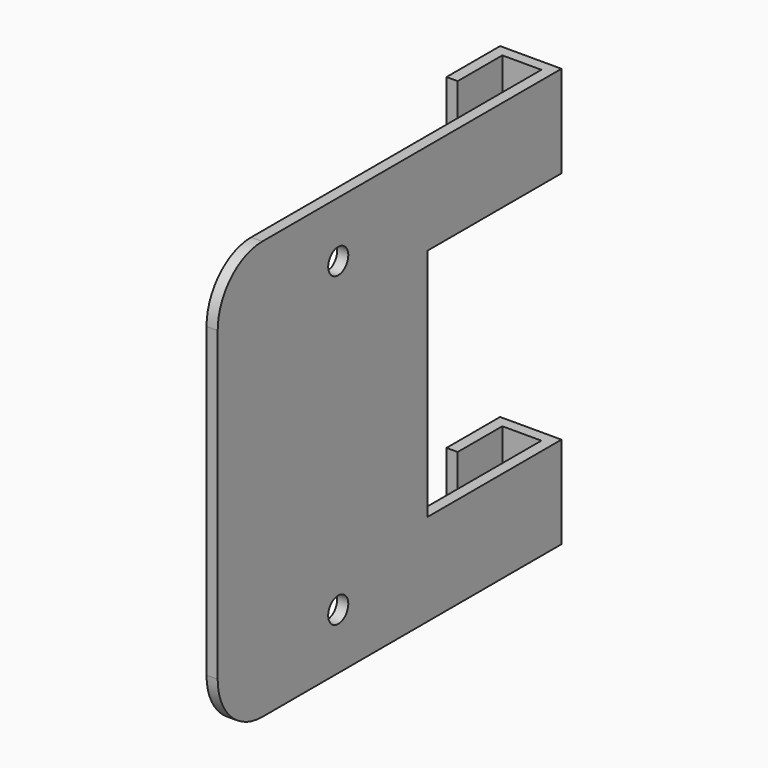
from build123d import *

# Parameters (mm, degrees)
F3_DEPTH = 75
F4_W     = 30
F4_H     = 42
F5_DEPTH = 25
F6_D     = 4.5
F7_R     = 10


with BuildPart() as f3:
    # F2 (on Top) → F3 (new body)
    with BuildSketch(Plane.XY):
        Polygon((0, 0), (2, 0), (2, 10), (9, 10), (9, -65), (11, -65), (11, 12), (0, 12), align=None)
    extrude(amount=F3_DEPTH)

    # F4 (on face) → F5 (cut)
    with BuildSketch(Plane.YZ.offset(11)):
        with Locations((-3, 37.5)):
            Rectangle(F4_W, F4_H)
    extrude(amount=-F5_DEPTH, mode=Mode.SUBTRACT)

    # F6 (through all)
    with Locations(Plane.YZ.offset(11)):
        with Locations((-38, 65), (-38, 10)):
            Hole(F6_D / 2)

    # F7
    f7_edges = [f3.edges().sort_by_distance(p)[0] for p in [
        (10, -65, 0),
        (10, -65, 75),
    ]]
    fillet(f7_edges, radius=F7_R)


solid = f3.part
